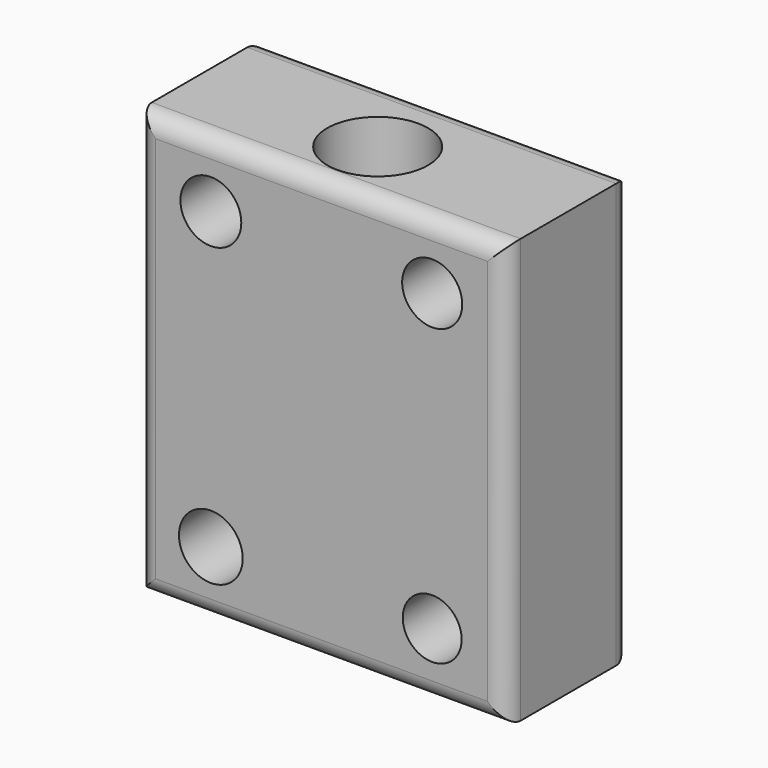
from build123d import *

# Parameters (mm, degrees)
F0_W     = 30
F0_H     = 34.5
F1_DEPTH = 12.7
F2_R     = 2.47581
F2_R_2   = 2.592186
F2_R_3   = 2.442266
F2_R_4   = 2.394142
F3_DEPTH = 12.701
F4_R     = 1.5
F5_R     = 4.1
F6_DEPTH = 34.501


with BuildPart() as f1:
    # F0 (on Front) → F1 (new body)
    with BuildSketch(Plane.XZ):
        Rectangle(F0_W, F0_H)
    extrude(amount=F1_DEPTH)

    # F2 (on face) → F3 (cut, through all)
    with BuildSketch(Plane.XZ.offset(12.7)):
        with Locations((-9, 12)):
            Circle(F2_R)
        with Locations((-9, -12)):
            Circle(F2_R_2)
        with Locations((9, 12)):
            Circle(F2_R_3)
        with Locations((9, -12)):
            Circle(F2_R_4)
    extrude(amount=-F3_DEPTH, mode=Mode.SUBTRACT)

    # F4
    f4_edges = [f1.edges().sort_by_distance(p)[0] for p in [
        (-15, 0, 0),
        (0, 0, 17.25),
        (15, 0, 0),
        (0, 0, -17.25),
        (15, -12.7, 0),
        (0, -12.7, 17.25),
        (-15, -12.7, 0),
        (0, -12.7, -17.25),
    ]]
    fillet(f4_edges, radius=F4_R)

    # F5 (on face) → F6 (cut, through all)
    with BuildSketch(Plane(origin=(0, 0, -17.25), x_dir=(1, 0, 0), z_dir=(0, 0, -1))):
        with Locations((0, 6.991122)):
            Circle(F5_R)
    extrude(amount=-F6_DEPTH, mode=Mode.SUBTRACT)


solid = f1.part
